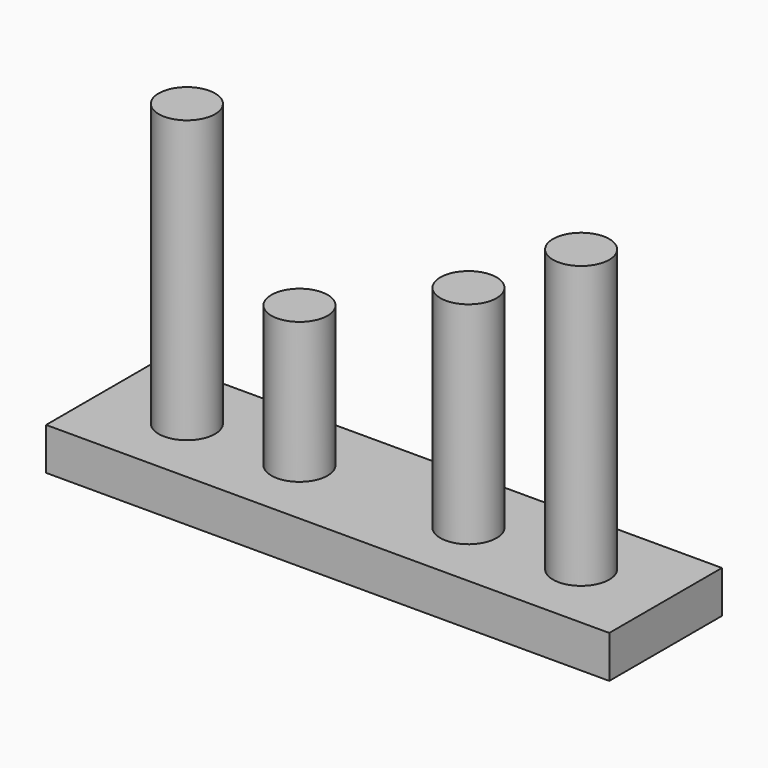
from build123d import *

# Parameters (mm, degrees)
F0_W     = 40
F0_H     = 10
F1_DEPTH = 3
F2_R     = 2
F3_DEPTH = 20
F4_DEPTH = 10
F5_DEPTH = 15


with BuildPart() as f1:
    # F0 (on Top) → F1 (new body)
    with BuildSketch(Plane.XY):
        Rectangle(F0_W, F0_H)
    extrude(amount=F1_DEPTH)

    # F2 (on face) → F3 (join)
    with BuildSketch(Plane.XY.offset(3)):
        with Locations((-14, 0)):
            Circle(F2_R)
        with Locations((14, 0)):
            Circle(F2_R)
    extrude(amount=F3_DEPTH)

    # F2 (on face) → F4 (join)
    with BuildSketch(Plane.XY.offset(3)):
        with Locations((-6, 0)):
            Circle(F2_R)
    extrude(amount=F4_DEPTH)

    # F2 (on face) → F5 (join)
    with BuildSketch(Plane.XY.offset(3)):
        with Locations((6, 0)):
            Circle(F2_R)
    extrude(amount=F5_DEPTH)


solid = f1.part
